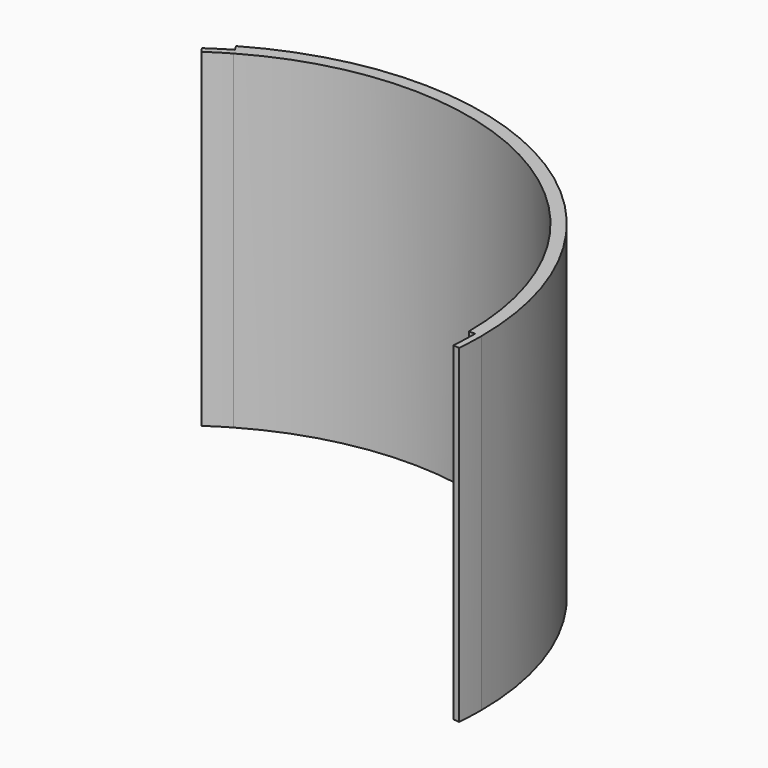
from build123d import *

# Parameters (mm, degrees)
F1_DEPTH = 130
F3_DEPTH = 130


with BuildPart() as f1:
    # F0 (on Top) → F1 (new body)
    with BuildSketch(Plane.XY):
        with BuildLine():
            ThreePointArc((-57.5, 99.592921), (57.5, 99.592921), (115, 0))
            Line((115, 0), (120, 0))
            ThreePointArc((120, 0), (60, 103.923048), (-60, 103.923048))
            Line((-60, 103.923048), (-57.5, 99.592921))
        make_face()
    extrude(amount=F1_DEPTH)

    # F2 (on face) → F3 (join)
    with BuildSketch(Plane.XY.offset(130)):
        with BuildLine():
            ThreePointArc((117.5, 0), (117.388166, -5.125278), (117.052877, -10.2408))
            Line((117.052877, -10.2408), (119.543364, -10.458689))
            ThreePointArc((119.543364, -10.458689), (119.885787, -5.234326), (120, 0))
            Line((120, 0), (117.5, 0))
        make_face()
        with BuildLine():
            ThreePointArc((-65.96129, 94.202485), (-61.789455, 96.990016), (-57.5, 99.592921))
            Line((-57.5, 99.592921), (-58.75, 101.757985))
            ThreePointArc((-58.75, 101.757985), (-63.132704, 99.098495), (-67.395231, 96.250365))
            Line((-67.395231, 96.250365), (-65.96129, 94.202485))
        make_face()
    extrude(amount=-F3_DEPTH)


solid = f1.part
